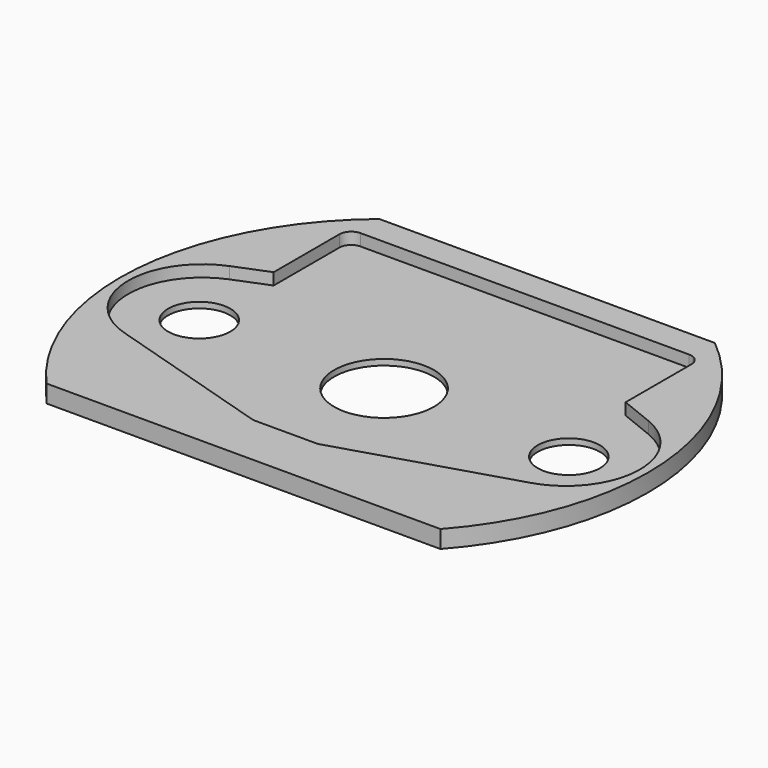
from build123d import *

# Parameters (mm, degrees)
SKETCH_R        = 22.5
PAD_DEPTH       = 1
SKETCH001_R     = 22.5
PAD001_DEPTH    = 0.5
SKETCH002_R     = 4.25
SKETCH002_R_2   = 2.65
POCKET_DEPTH    = 1.501
FILLET_R        = 1
FILLET001_R     = 1
POCKET001_DEPTH = 5


with BuildPart() as part:
    # Sketch → Pad (new body)
    with BuildSketch(Plane.XY):
        Circle(SKETCH_R)
        with BuildLine():
            ThreePointArc((17.347253, -6.023093), (21.794374, -0.266197), (17.849197, 5.84562))
            Line((15, 6.990635), (17.849197, 5.84562))
            Line((15, 15), (15, 6.990635))
            Line((-15, 15), (15, 15))
            Line((-15, 15), (-15, 6.990635))
            Line((-17.849197, 5.84562), (-15, 6.990635))
            ThreePointArc((-17.849197, 5.84562), (-21.794374, -0.266197), (-17.347253, -6.023093))
            Line((-17.347253, -6.023093), (-2.75, -10.5))
            Line((-2.75, -10.5), (2.75, -10.5))
            Line((17.347253, -6.023093), (2.75, -10.5))
        make_face(mode=Mode.SUBTRACT)
    extrude(amount=PAD_DEPTH)

    # Sketch001 (on Face12 of Pad) → Pad001 (join)
    with BuildSketch(Plane(origin=(0, 0, 0), x_dir=(1, 0, 0), z_dir=(0, 0, -1))):
        Circle(SKETCH001_R)
    extrude(amount=PAD001_DEPTH)

    # Sketch002 (on Face4 of Pad001) → Pocket (cut, through all)
    with BuildSketch(Plane(origin=(0, 0, -0.5), x_dir=(1, 0, 0), z_dir=(0, 0, -1))):
        Circle(SKETCH002_R)
        with Locations((-15.75, 0)):
            Circle(SKETCH002_R_2)
        with Locations((15.75, 0)):
            Circle(SKETCH002_R_2)
    extrude(amount=-POCKET_DEPTH, mode=Mode.SUBTRACT)

    # Fillet
    fillet_edges = [part.edges().sort_by_distance(p)[0] for p in [
        (15, 15, 0.5),
        (-15, 15, 0.5),
    ]]
    fillet(fillet_edges, radius=FILLET_R)

    # Fillet001
    fillet001_edges = [part.edges().sort_by_distance(p)[0] for p in [
        (-2.75, -10.5, 0.5),
        (2.75, -10.5, 0.5),
    ]]
    fillet(fillet001_edges, radius=FILLET001_R)

    # Sketch003 (on Face1 of Fillet001) → Pocket001 (cut)
    with BuildSketch(Plane.XY.offset(1)):
        with BuildLine():
            Line((-14.299143, 17.371946), (14.299143, 17.371946))
            ThreePointArc((14.299143, 17.371946), (0, 22.5), (-14.299143, 17.371946))
        make_face()
        with BuildLine():
            Line((16.788655, -14.979688), (-16.788655, -14.979688))
            ThreePointArc((-16.788655, -14.979688), (0, -22.5), (16.788655, -14.979688))
        make_face()
    extrude(amount=-POCKET001_DEPTH, mode=Mode.SUBTRACT)


solid = part.part
